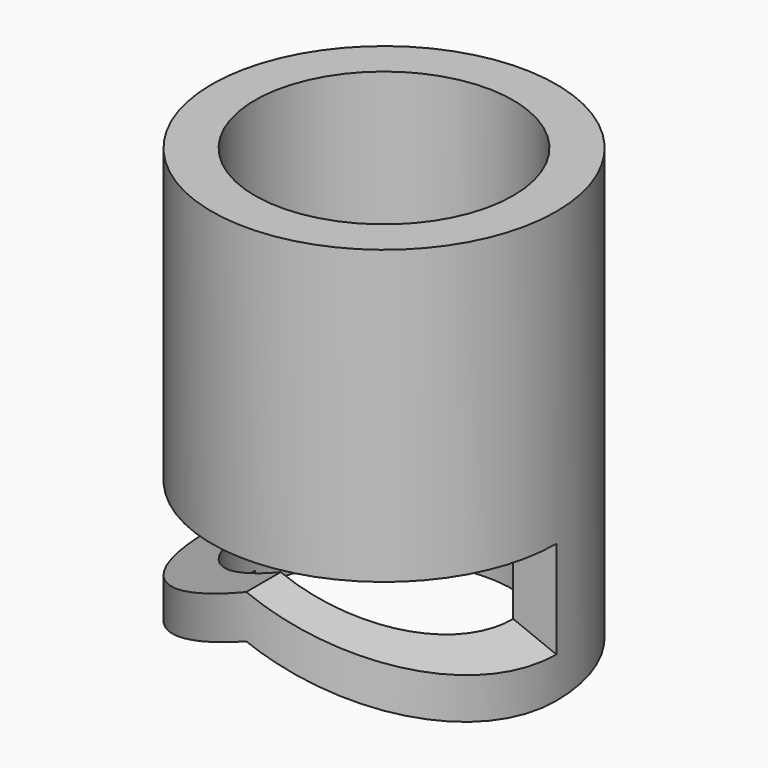
from build123d import *

# Parameters (mm, degrees)
F0_R     = 10
F0_R_2   = 7.5
F1_DEPTH = 25
F3_DEPTH = 25


with BuildPart() as f1:
    # F0 (on Top) → F1 (new body)
    with BuildSketch(Plane.XY):
        Circle(F0_R)
        Circle(F0_R_2, mode=Mode.SUBTRACT)
    extrude(amount=F1_DEPTH)

    # F2 (on Front) → F3 (cut)
    with BuildSketch(Plane.XZ):
        Polygon((0, 3.849256), (-10, 0), (0, 0), align=None)
        Polygon((0, 3.849256), (0, 0), (10, 0), align=None)
        Polygon((-10, 8.024929), (-10, 2.282619), (0, 6.373282), (0, 8.024929), align=None)
        Polygon((0, 8.024929), (0, 6.373282), (10, 2.369654), (10, 8.024929), align=None)
    extrude(amount=F3_DEPTH, mode=Mode.SUBTRACT)


solid = f1.part
